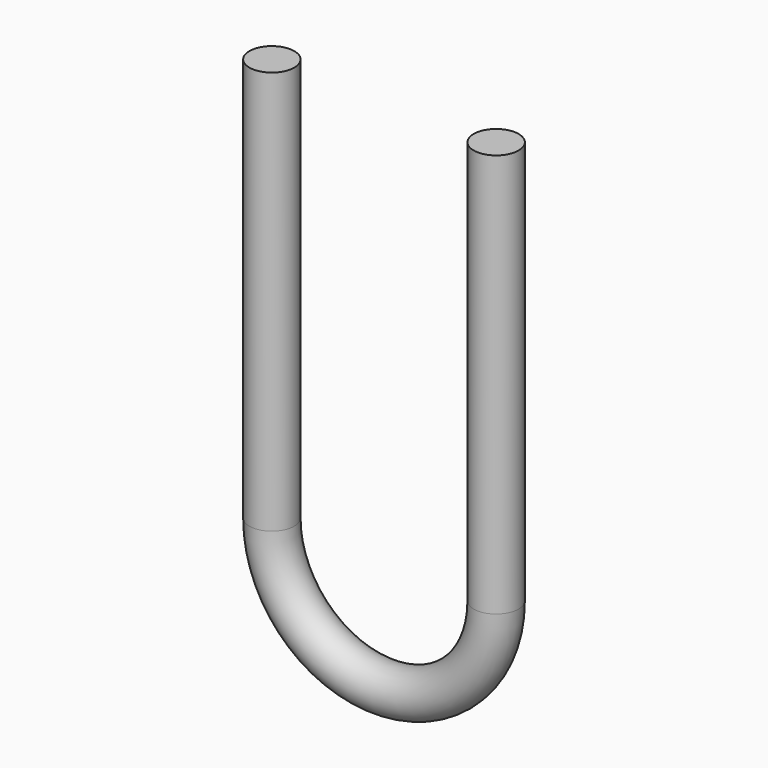
from build123d import *

# Parameters (mm, degrees)
F2_R = 5


with BuildPart() as f3:
    # F3: sweep along a path in F0
    with BuildLine(Plane.XZ) as f3_path:
        Line((50, 44.286207), (50, -45.713793))
        ThreePointArc((50, -45.713793), (25, -70.713793), (0, -45.713793))
        Line((0, -45.713793), (0, 44.286207))
    # F2 (on face) → F3 (sweep)
    with BuildSketch(Plane(origin=(0, 0, 44.286207), x_dir=(1, 0, 0), z_dir=(0, 0, -1))):
        with Locations((50, 0)):
            Circle(F2_R)
    sweep(path=f3_path.line)


solid = f3.part
